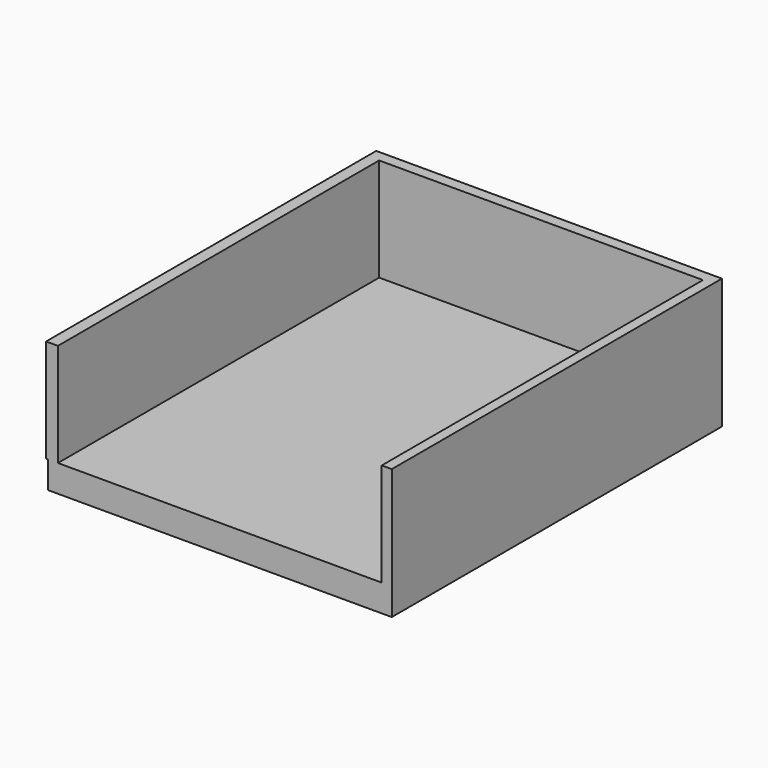
from build123d import *

# Parameters (mm, degrees)
F0_W     = 127
F0_H     = 152.4
F1_DEPTH = 10
F2_W     = 0.6640722752
F2_H     = 152.4
F2_W_2   = 3.7127489448
F2_H_2   = 148.2687823314
F3_DEPTH = 38.1


with BuildPart() as f1:
    # F0 (on Top) → F1 (new body)
    with BuildSketch(Plane.XY):
        with Locations((0.8131340146, 11.9529126268)):
            Rectangle(F0_W, F0_H)
    extrude(amount=F1_DEPTH)

    # F2 (on face) → F3 (join)
    with BuildSketch(Plane.XY.offset(10)):
        with Locations((-63.018902123, 11.9529126268)):
            Rectangle(F2_W, F2_H)
        Polygon((-58.9747056365, 88.1529126268), (-62.6868659854, 88.1529126268), (-62.6868659854, -64.2470873732), (-58.9747056365, -64.2470873732), (-58.9747056365, 84.0216949582), align=None)
        Polygon((64.3131340146, 88.1529126268), (-58.9747056365, 88.1529126268), (-58.9747056365, 84.0216949582), (60.6003850698, 84.0216949582), (64.3131340146, 84.0216949582), align=None)
        with Locations((62.4567595422, 9.8873037925)):
            Rectangle(F2_W_2, F2_H_2)
    extrude(amount=F3_DEPTH)


solid = f1.part
